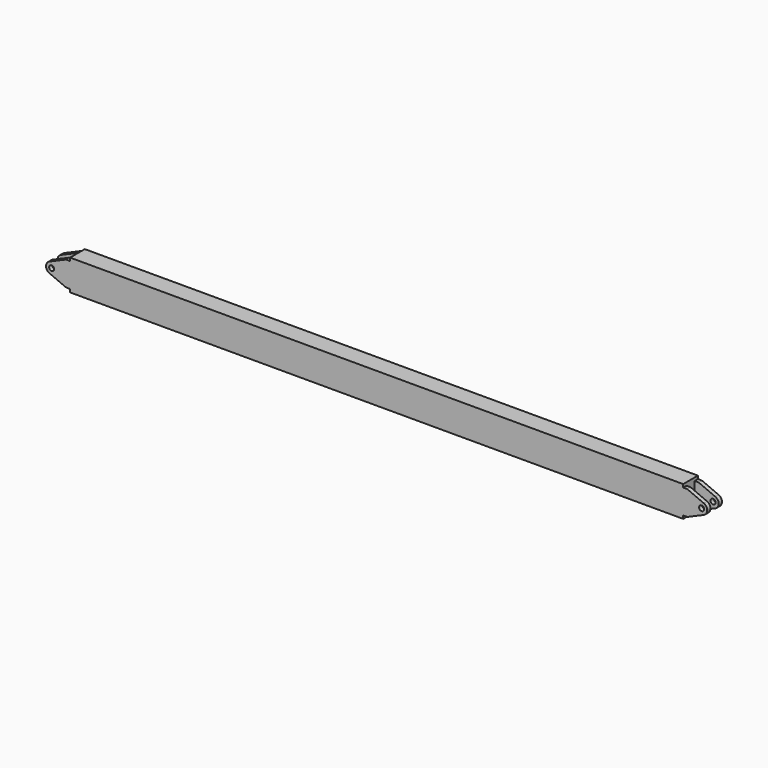
from build123d import *

# Parameters (mm, degrees)
F0_W     = 300
F0_H     = 15
F1_DEPTH = 3
F2_DEPTH = 6
F3_R     = 1.25
F3_W     = 2
F3_H     = 12
F5_DEPTH = 2
F4_W     = 2
F4_H     = 12
F4_R     = 1.25
F6_DEPTH = 2


with BuildPart() as f1:
    # F0 (on Front) → F1 (new body)
    with BuildSketch(Plane.XZ):
        Rectangle(F0_W, F0_H)
    extrude(amount=F1_DEPTH)

    # F0 (on Front) → F2 (join)
    with BuildSketch(Plane.XZ):
        Rectangle(F0_W, F0_H)
    extrude(amount=-F2_DEPTH)

    # F3 (on face) → F5 (join)
    with BuildSketch(Plane.XZ.offset(3)):
        with BuildLine():
            ThreePointArc((-156.25, 0), (-157.48712, 2.296452), (-160.085414, 2.526733))
            ThreePointArc((-160.085414, 2.526733), (-161.75, 0), (-160.085414, -2.526733))
            ThreePointArc((-160.085414, -2.526733), (-157.48712, -2.296452), (-156.25, 0))
        make_face()
        with Locations((-159, 0)):
            Circle(F3_R, mode=Mode.SUBTRACT)
        with BuildLine():
            Line((-152, -6), (-152, 6))
            Line((-152, 6), (-160.085414, 2.526733))
            ThreePointArc((-160.085414, 2.526733), (-157.48712, 2.296452), (-156.25, 0))
            ThreePointArc((-156.25, 0), (-157.48712, -2.296452), (-160.085414, -2.526733))
            Line((-160.085414, -2.526733), (-152, -6))
        make_face()
        with Locations((-151, 0)):
            Rectangle(F3_W, F3_H)
        with Locations((151, 0)):
            Rectangle(F3_W, F3_H)
        with BuildLine():
            ThreePointArc((160.085414, -2.526733), (156.25, 0), (160.085414, 2.526733))
            Line((160.085414, 2.526733), (152, 6))
            Line((152, 6), (152, -6))
            Line((152, -6), (160.085414, -2.526733))
        make_face()
        with BuildLine():
            ThreePointArc((160.085414, -2.526733), (161.296452, -1.51288), (161.75, 0))
            ThreePointArc((161.75, 0), (161.296452, 1.51288), (160.085414, 2.526733))
            ThreePointArc((160.085414, 2.526733), (156.25, 0), (160.085414, -2.526733))
        make_face()
        with Locations((159, 0)):
            Circle(F3_R, mode=Mode.SUBTRACT)
    extrude(amount=-F5_DEPTH)

    # F4 (on face) → F6 (join)
    with BuildSketch(Plane(origin=(0, 6, 0), x_dir=(-1, 0, 0), z_dir=(0, 1, 0))):
        with BuildLine():
            Line((-152, -6), (-152, 6))
            Line((-152, 6), (-160.085414, 2.526733))
            ThreePointArc((-160.085414, 2.526733), (-157.48712, 2.296452), (-156.25, 0))
            ThreePointArc((-156.25, 0), (-157.48712, -2.296452), (-160.085414, -2.526733))
            Line((-160.085414, -2.526733), (-152, -6))
        make_face()
        with Locations((-151, 0)):
            Rectangle(F4_W, F4_H)
        with BuildLine():
            ThreePointArc((-156.25, 0), (-157.48712, 2.296452), (-160.085414, 2.526733))
            ThreePointArc((-160.085414, 2.526733), (-161.75, 0), (-160.085414, -2.526733))
            ThreePointArc((-160.085414, -2.526733), (-157.48712, -2.296452), (-156.25, 0))
        make_face()
        with Locations((-159, 0)):
            Circle(F4_R, mode=Mode.SUBTRACT)
        with Locations((151, 0)):
            Rectangle(F4_W, F4_H)
        with BuildLine():
            ThreePointArc((160.085414, -2.526733), (156.25, 0), (160.085414, 2.526733))
            Line((160.085414, 2.526733), (152, 6))
            Line((152, 6), (152, -6))
            Line((152, -6), (160.085414, -2.526733))
        make_face()
        with BuildLine():
            ThreePointArc((160.085414, -2.526733), (161.296452, -1.51288), (161.75, 0))
            ThreePointArc((161.75, 0), (161.296452, 1.51288), (160.085414, 2.526733))
            ThreePointArc((160.085414, 2.526733), (156.25, 0), (160.085414, -2.526733))
        make_face()
        with Locations((159, 0)):
            Circle(F4_R, mode=Mode.SUBTRACT)
    extrude(amount=-F6_DEPTH)


solid = f1.part
